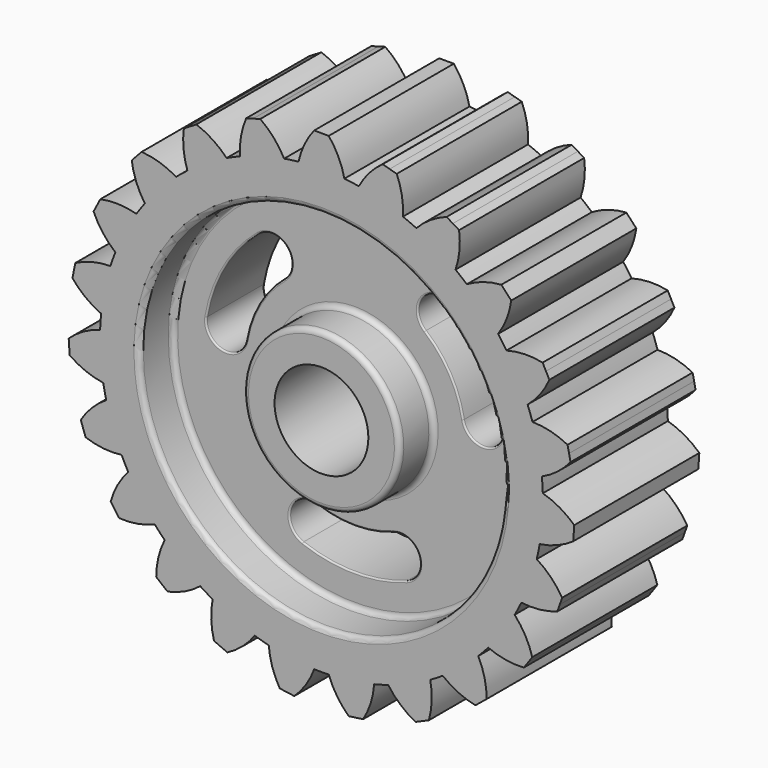
from build123d import *

# Parameters (mm, degrees)
F2_R     = 9
F3_DEPTH = 30.001
F5_DEPTH = 30
F7_DEPTH = 22.001
F8_R     = 1
F9_R     = 0.3


with BuildPart() as f1:
    # F0 (on Right) → F1 (revolve)
    with BuildSketch(Plane.YZ):
        Polygon((-15, 15), (-15, 0), (15, 0), (15, 15), (7, 15), (7, 35), (15, 35), (15, 42.5), (-15, 42.5), (-15, 35), (-7, 35), (-7, 15), align=None)
    revolve(axis=Axis((0, 0, 0), (0, 1, 0)))

    # F2 (on face) → F3 (cut, through all)
    with BuildSketch(Plane.XZ.offset(15)):
        Circle(F2_R)
    extrude(amount=-F3_DEPTH, mode=Mode.SUBTRACT)

    # F4 (on face) → F5 (join, through all)
    with BuildSketch(Plane.XZ.offset(15)):
        with BuildLine():
            ThreePointArc((34.5089671016, 34.1447399747), (31.0779994892, 33.4943683067), (27.8903875666, 32.0683064938))
            ThreePointArc((27.8903875666, 32.0683064938), (31.0605284818, 29.0085085868), (33.896855227, 25.6369500082))
            ThreePointArc((33.896855227, 25.6369500082), (35.5371228911, 28.719812972), (36.4201159026, 32.0983992747))
            Line((36.4201159026, 32.0983992747), (35.4645415021, 33.1215696247))
            Line((35.4645415021, 33.1215696247), (34.5089671016, 34.1447399747))
        make_face()
        with BuildLine():
            ThreePointArc((24.0171403935, 42.1889682936), (20.8888705433, 40.6370501876), (18.2042107902, 38.4038632107))
            ThreePointArc((18.2042107902, 38.4038632107), (22.0823178765, 36.3128246932), (25.7231015502, 33.8315244504))
            ThreePointArc((25.7231015502, 33.8315244504), (26.4707971664, 37.2426054123), (26.4095147262, 40.7341332335))
            Line((26.4095147262, 40.7341332335), (25.2133275598, 41.4615507635))
            Line((25.2133275598, 41.4615507635), (24.0171403935, 42.1889682936))
        make_face()
        with BuildLine():
            ThreePointArc((11.7440722535, 47.1042338358), (9.1505096293, 44.7658679581), (7.1679109782, 41.8911810792))
            ThreePointArc((7.1679109782, 41.8911810792), (11.4663627742, 40.9239847123), (15.6415831069, 39.516969493))
            ThreePointArc((15.6415831069, 39.516969493), (15.4412535116, 43.0032841828), (14.440240658, 46.3488028766))
            Line((14.440240658, 46.3488028766), (13.0921564558, 46.7265183562))
            Line((13.0921564558, 46.7265183562), (11.7440722535, 47.1042338358))
        make_face()
        with BuildLine():
            Line((1.4, 48.525993842), (0, 48.525993842))
            Line((0, 48.525993842), (-1.4, 48.525993842))
            ThreePointArc((-1.4, 48.525993842), (-3.266502723, 45.5746060924), (-4.4, 42.2716216864))
            ThreePointArc((-4.4, 42.2716216864), (0, 42.5), (4.4, 42.2716216864))
            ThreePointArc((4.4, 42.2716216864), (3.266502723, 45.5746060924), (1.4, 48.525993842))
        make_face()
        with BuildLine():
            ThreePointArc((-15.6415831069, 39.516969493), (-11.4663627742, 40.9239847123), (-7.1679109782, 41.8911810792))
            ThreePointArc((-7.1679109782, 41.8911810792), (-9.1505096293, 44.7658679581), (-11.7440722535, 47.1042338358))
            Line((-11.7440722535, 47.1042338358), (-13.0921564558, 46.7265183562))
            Line((-13.0921564558, 46.7265183562), (-14.440240658, 46.3488028766))
            ThreePointArc((-14.440240658, 46.3488028766), (-15.4412535116, 43.0032841828), (-15.6415831069, 39.516969493))
        make_face()
        with BuildLine():
            ThreePointArc((-25.7231015502, 33.8315244504), (-22.0823178765, 36.3128246932), (-18.2042107902, 38.4038632107))
            ThreePointArc((-18.2042107902, 38.4038632107), (-20.8888705433, 40.6370501876), (-24.0171403935, 42.1889682936))
            Line((-24.0171403935, 42.1889682936), (-25.2133275598, 41.4615507635))
            Line((-25.2133275598, 41.4615507635), (-26.4095147262, 40.7341332335))
            ThreePointArc((-26.4095147262, 40.7341332335), (-26.4707971664, 37.2426054123), (-25.7231015502, 33.8315244504))
        make_face()
        with BuildLine():
            ThreePointArc((-33.896855227, 25.6369500082), (-31.0605284818, 29.0085085868), (-27.8903875666, 32.0683064938))
            ThreePointArc((-27.8903875666, 32.0683064938), (-31.0779994892, 33.4943683067), (-34.5089671016, 34.1447399747))
            Line((-34.5089671016, 34.1447399747), (-35.4645415021, 33.1215696247))
            Line((-35.4645415021, 33.1215696247), (-36.4201159026, 32.0983992747))
            ThreePointArc((-36.4201159026, 32.0983992747), (-35.5371228911, 28.719812972), (-33.896855227, 25.6369500082))
        make_face()
        with BuildLine():
            ThreePointArc((-39.5566342193, 15.5410002652), (-37.7351217821, 19.5527641036), (-35.5080618873, 23.3543901871))
            ThreePointArc((-35.5080618873, 23.3543901871), (-38.9622153855, 23.8675623551), (-42.4414215878, 23.5681524936))
            Line((-42.4414215878, 23.5681524936), (-43.0855126406, 22.3251131879))
            Line((-43.0855126406, 22.3251131879), (-43.7296036934, 21.0820738821))
            ThreePointArc((-43.7296036934, 21.0820738821), (-41.9678227825, 18.0670033879), (-39.5566342193, 15.5410002652))
        make_face()
        with BuildLine():
            ThreePointArc((-42.2826786111, 4.2924456278), (-41.6110737265, 8.6468805547), (-40.4922656963, 12.9083855994))
            ThreePointArc((-40.4922656963, 12.9083855994), (-43.9567820068, 12.4706084905), (-47.2261899914, 11.2436229593))
            Line((-47.2261899914, 11.2436229593), (-47.5110284097, 9.8729052365))
            Line((-47.5110284097, 9.8729052365), (-47.795866828, 8.5021875138))
            ThreePointArc((-47.795866828, 8.5021875138), (-45.2859612481, 6.0742468136), (-42.2826786111, 4.2924456278))
        make_face()
        with BuildLine():
            ThreePointArc((-41.8728101608, -7.2744600652), (-42.4009226906, -2.900302568), (-42.4733433984, 1.5050251037))
            ThreePointArc((-42.4733433984, 1.5050251037), (-45.6912751957, 0.1487666433), (-48.5084079288, -1.9147946538))
            Line((-48.5084079288, -1.9147946538), (-48.4128685501, -3.3115309307))
            Line((-48.4128685501, -3.3115309307), (-48.3173291714, -4.7082672076))
            ThreePointArc((-48.3173291714, -4.7082672076), (-45.2454471375, -6.3690088591), (-41.8728101608, -7.2744600652))
        make_face()
        with BuildLine():
            ThreePointArc((-38.3574269362, -18.3018523335), (-40.04608919, -14.2323835173), (-41.3043675233, -10.0099562189))
            ThreePointArc((-41.3043675233, -10.0099562189), (-44.0370555269, -12.1841085452), (-46.1929791614, -14.9312007071))
            Line((-46.1929791614, -14.9312007071), (-45.7241477043, -16.250365998))
            Line((-45.7241477043, -16.250365998), (-45.2553162473, -17.569531289))
            ThreePointArc((-45.2553162473, -17.569531289), (-41.8492851968, -18.339904281), (-38.3574269362, -18.3018523335))
        make_face()
        with BuildLine():
            ThreePointArc((-31.9972488292, -27.9718799397), (-34.7212204529, -24.5089136899), (-37.0720356638, -20.7825448812))
            ThreePointArc((-37.0720356638, -20.7825448812), (-39.1168089058, -23.6133441415), (-40.4516284483, -26.8402279095))
            Line((-40.4516284483, -26.8402279095), (-39.6442759973, -27.9839857598))
            Line((-39.6442759973, -27.9839857598), (-38.8369235464, -29.12774361))
            ThreePointArc((-38.8369235464, -29.12774361), (-35.3493532208, -28.9506129018), (-31.9972488292, -27.9718799397))
        make_face()
        with BuildLine():
            ThreePointArc((-23.2639811543, -35.5673611736), (-26.8212376339, -32.9677298549), (-30.0902405125, -30.0137872635))
            ThreePointArc((-30.0902405125, -30.0137872635), (-31.2954475157, -33.2912860267), (-31.7101655071, -36.7586381939))
            Line((-31.7101655071, -36.7586381939), (-30.6241697001, -37.6421613159))
            Line((-30.6241697001, -37.6421613159), (-29.5381738932, -38.525684438))
            ThreePointArc((-29.5381738932, -38.525684438), (-26.227721429, -37.4141870039), (-23.2639811543, -35.5673611736))
        make_face()
        with BuildLine():
            ThreePointArc((-12.8053304228, -40.5249739391), (-16.9320463185, -38.981480314), (-20.8767898761, -37.0190443484))
            ThreePointArc((-20.8767898761, -37.0190443484), (-21.1530459505, -40.5001655248), (-20.6169046546, -43.9508284429))
            Line((-20.6169046546, -43.9508284429), (-19.3328088325, -44.5085899687))
            Line((-19.3328088325, -44.5085899687), (-18.0487130104, -45.0663514945))
            ThreePointArc((-18.0487130104, -45.0663514945), (-15.1608995226, -43.1029220145), (-12.8053304228, -40.5249739391))
        make_face()
        with BuildLine():
            ThreePointArc((-1.3969669143, -42.4770347769), (-5.7870825866, -42.1041527065), (-10.1150032395, -41.2787682649))
            ThreePointArc((-10.1150032395, -41.2787682649), (-9.4418197359, -44.7053330219), (-7.9945823, -47.883386808))
            Line((-7.9945823, -47.883386808), (-6.6076219755, -48.0740201167))
            Line((-6.6076219755, -48.0740201167), (-5.2206616511, -48.2646534255))
            ThreePointArc((-5.2206616511, -48.2646534255), (-2.9696630551, -45.594910482), (-1.3969669143, -42.4770347769))
        make_face()
        with BuildLine():
            ThreePointArc((7.9945823, -47.883386808), (9.4418197359, -44.7053330219), (10.1150032395, -41.2787682649))
            ThreePointArc((10.1150032395, -41.2787682649), (5.7870825866, -42.1041527065), (1.3969669143, -42.4770347769))
            ThreePointArc((1.3969669143, -42.4770347769), (2.9696630551, -45.594910482), (5.2206616511, -48.2646534255))
            Line((5.2206616511, -48.2646534255), (6.6076219755, -48.0740201167))
            Line((6.6076219755, -48.0740201167), (7.9945823, -47.883386808))
        make_face()
        with BuildLine():
            ThreePointArc((20.6169046546, -43.9508284429), (21.1530459505, -40.5001655248), (20.8767898761, -37.0190443484))
            ThreePointArc((20.8767898761, -37.0190443484), (16.9320463185, -38.981480314), (12.8053304228, -40.5249739391))
            ThreePointArc((12.8053304228, -40.5249739391), (15.1608995226, -43.1029220145), (18.0487130104, -45.0663514945))
            Line((18.0487130104, -45.0663514945), (19.3328088325, -44.5085899687))
            Line((19.3328088325, -44.5085899687), (20.6169046546, -43.9508284429))
        make_face()
        with BuildLine():
            ThreePointArc((31.7101655071, -36.7586381939), (31.2954475157, -33.2912860267), (30.0902405125, -30.0137872635))
            ThreePointArc((30.0902405125, -30.0137872635), (26.8212376339, -32.9677298549), (23.2639811543, -35.5673611736))
            ThreePointArc((23.2639811543, -35.5673611736), (26.227721429, -37.4141870039), (29.5381738932, -38.525684438))
            Line((29.5381738932, -38.525684438), (30.6241697001, -37.6421613159))
            Line((30.6241697001, -37.6421613159), (31.7101655071, -36.7586381939))
        make_face()
        with BuildLine():
            ThreePointArc((40.4516284483, -26.8402279095), (39.1168089058, -23.6133441415), (37.0720356638, -20.7825448812))
            ThreePointArc((37.0720356638, -20.7825448812), (34.7212204529, -24.5089136899), (31.9972488292, -27.9718799397))
            ThreePointArc((31.9972488292, -27.9718799397), (35.3493532208, -28.9506129018), (38.8369235464, -29.12774361))
            Line((38.8369235464, -29.12774361), (39.6442759973, -27.9839857598))
            Line((39.6442759973, -27.9839857598), (40.4516284483, -26.8402279095))
        make_face()
        with BuildLine():
            ThreePointArc((46.1929791614, -14.9312007071), (44.0370555269, -12.1841085452), (41.3043675233, -10.0099562189))
            ThreePointArc((41.3043675233, -10.0099562189), (40.04608919, -14.2323835173), (38.3574269362, -18.3018523335))
            ThreePointArc((38.3574269362, -18.3018523335), (41.8492851968, -18.339904281), (45.2553162473, -17.569531289))
            Line((45.2553162473, -17.569531289), (45.7241477043, -16.250365998))
            Line((45.7241477043, -16.250365998), (46.1929791614, -14.9312007071))
        make_face()
        with BuildLine():
            ThreePointArc((47.2261899914, 11.2436229593), (43.9567820068, 12.4706084905), (40.4922656963, 12.9083855994))
            ThreePointArc((40.4922656963, 12.9083855994), (41.6110737265, 8.6468805547), (42.2826786111, 4.2924456278))
            ThreePointArc((42.2826786111, 4.2924456278), (45.2859612481, 6.0742468136), (47.795866828, 8.5021875138))
            Line((47.795866828, 8.5021875138), (47.5110284097, 9.8729052365))
            Line((47.5110284097, 9.8729052365), (47.2261899914, 11.2436229593))
        make_face()
        with BuildLine():
            ThreePointArc((48.5084079288, -1.9147946538), (45.6912751957, 0.1487666433), (42.4733433984, 1.5050251037))
            ThreePointArc((42.4733433984, 1.5050251037), (42.493335327, 0.7526305763), (42.5, 0))
            ThreePointArc((42.5, 0), (42.3429122276, -3.6507237753), (41.8728101608, -7.2744600652))
            ThreePointArc((41.8728101608, -7.2744600652), (45.2454471375, -6.3690088591), (48.3173291714, -4.7082672076))
            Line((48.3173291714, -4.7082672076), (48.4128685501, -3.3115309307))
            Line((48.4128685501, -3.3115309307), (48.5084079288, -1.9147946538))
        make_face()
        with BuildLine():
            ThreePointArc((42.4414215878, 23.5681524936), (38.9622153855, 23.8675623551), (35.5080618873, 23.3543901871))
            ThreePointArc((35.5080618873, 23.3543901871), (37.7351217821, 19.5527641036), (39.5566342193, 15.5410002652))
            ThreePointArc((39.5566342193, 15.5410002652), (41.9678227825, 18.0670033879), (43.7296036934, 21.0820738821))
            Line((43.7296036934, 21.0820738821), (43.0855126406, 22.3251131879))
            Line((43.0855126406, 22.3251131879), (42.4414215878, 23.5681524936))
        make_face()
    extrude(amount=-F5_DEPTH)

    # F6 (on face) → F7 (cut, through all)
    with BuildSketch(Plane.XZ.offset(7)):
        with BuildLine():
            ThreePointArc((-20.7948659831, 3.5754088919), (-18.2731360199, 10.55), (-13.4938279208, 16.2211777637))
            ThreePointArc((-13.4938279208, 16.2211777637), (-12.9897206039, 21.713524786), (-18.4820676262, 22.2176321029))
            ThreePointArc((-18.4820676262, 22.2176321029), (-25.0281341694, 14.45), (-28.4820676262, 4.8971240273))
            ThreePointArc((-28.4820676262, 4.8971240273), (-25.2993243723, 0.392665638), (-20.7948659831, 3.5754088919))
        make_face()
        with BuildLine():
            ThreePointArc((13.4938279208, 16.2211777637), (18.2731360199, 10.55), (20.7948659831, 3.5754088919))
            ThreePointArc((20.7948659831, 3.5754088919), (25.2993243723, 0.392665638), (28.4820676262, 4.8971240273))
            ThreePointArc((28.4820676262, 4.8971240273), (25.0281341694, 14.45), (18.4820676262, 22.2176321029))
            ThreePointArc((18.4820676262, 22.2176321029), (12.9897206039, 21.713524786), (13.4938279208, 16.2211777637))
        make_face()
        with BuildLine():
            ThreePointArc((-7.3010380623, -19.7965866556), (-12.3096037684, -22.106190424), (-10, -27.1147561302))
            ThreePointArc((-10, -27.1147561302), (0, -28.9), (10, -27.1147561302))
            ThreePointArc((10, -27.1147561302), (12.3096037684, -22.106190424), (7.3010380623, -19.7965866556))
            ThreePointArc((7.3010380623, -19.7965866556), (0, -21.1), (-7.3010380623, -19.7965866556))
        make_face()
    extrude(amount=-F7_DEPTH, mode=Mode.SUBTRACT)

    # F8
    f8_edges = [f1.edges().sort_by_distance(p)[0] for p in [
        (0, -7, -35),
        (0, -15, -35),
        (0, -15, -15),
        (0, 15, -35),
        (0, 7, -35),
        (0, 15, -15),
        (0, 7, -15),
        (0, -7, -15),
    ]]
    fillet(f8_edges, radius=F8_R)

    # F9
    f9_edges = [f1.edges().sort_by_distance(p)[0] for p in [
        (0, -7, -21.1),
        (18.273136, -7, 10.55),
        (-18.273136, -7, 10.55),
        (-18.273136, 7, 10.55),
        (0, 7, -21.1),
        (18.273136, 7, 10.55),
    ]]
    fillet(f9_edges, radius=F9_R)


solid = f1.part
